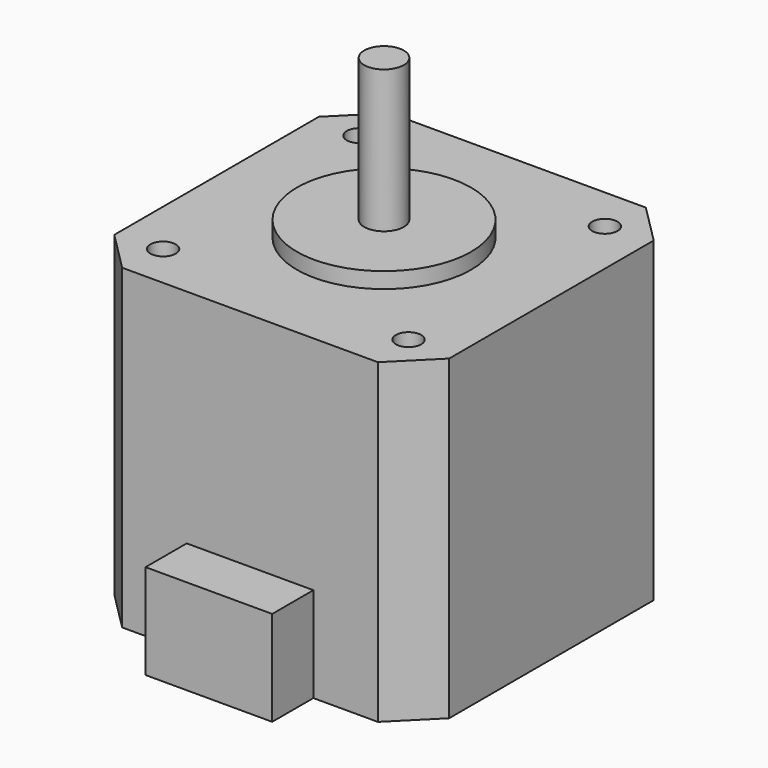
from build123d import *

# Parameters (mm, degrees)
F0_W      = 42.3
F0_H      = 42.3
F1_DEPTH  = 40
F3_D      = 3.2
F3_DEPTH  = 4.5
F3_TIP    = 0.9613769904
F4_R      = 11
F5_DEPTH  = 2
F6_R      = 2.5
F7_DEPTH  = 18
F8_SIZE   = 5
F9_W      = 16
F9_H      = 12
F10_DEPTH = 6.5


with BuildPart() as f1:
    # F0 (on Top) → F1 (new body)
    with BuildSketch(Plane.XY):
        with Locations((21.15, 21.15)):
            Rectangle(F0_W, F0_H)
    extrude(amount=F1_DEPTH)

    # F3
    with Locations(Plane.XY.offset(40)):
        with Locations((5.65, 36.65), (36.65, 36.65), (5.65, 5.65), (36.65, 5.65)):
            Hole(F3_D / 2, depth=F3_DEPTH)
            with Locations((0, 0, -(F3_DEPTH + F3_TIP / 2))):  # 118° drill point
                Cone(0, F3_D / 2, F3_TIP, mode=Mode.SUBTRACT)

    # F4 (on face) → F5 (join)
    with BuildSketch(Plane.XY.offset(40)):
        with Locations((21.15, 21.15)):
            Circle(F4_R)
    extrude(amount=F5_DEPTH)

    # F6 (on face) → F7 (join)
    with BuildSketch(Plane.XY.offset(42)):
        with Locations((21.15, 21.15)):
            Circle(F6_R)
    extrude(amount=F7_DEPTH)

    # F8
    f8_edges = [f1.edges().sort_by_distance(p)[0] for p in [
        (42.3, 42.3, 20),
        (42.3, 0, 20),
        (0, 42.3, 20),
        (0, 0, 20),
    ]]
    chamfer(f8_edges, length=F8_SIZE)

    # F9 (on face) → F10 (join)
    with BuildSketch(Plane.XZ):
        with Locations((21.15, 6)):
            Rectangle(F9_W, F9_H)
    extrude(amount=F10_DEPTH)


solid = f1.part
